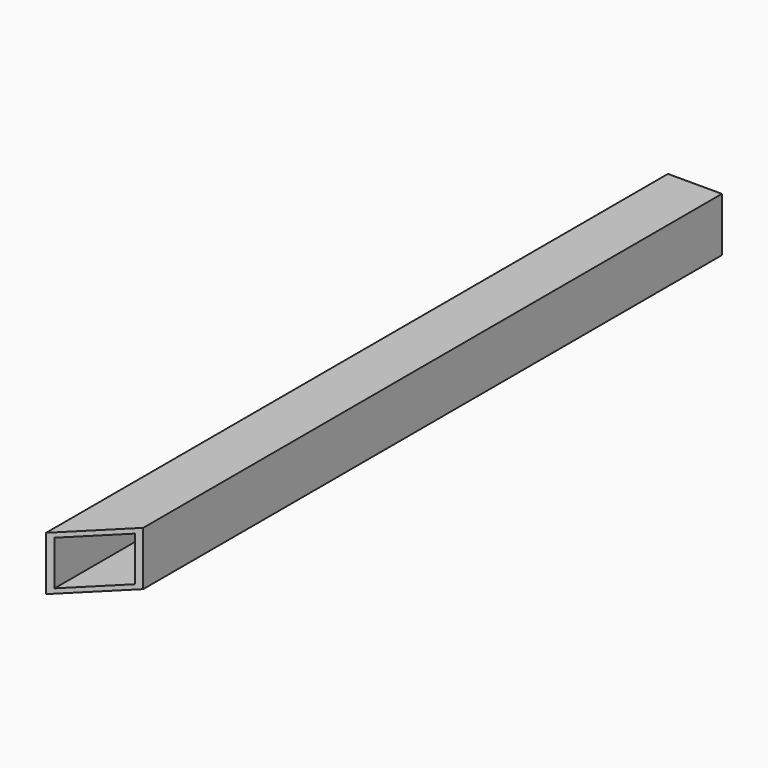
from build123d import *

# Parameters (mm, degrees)
SKETCH_W     = 31.75
SKETCH_H     = 31.75
SKETCH_W_2   = 26.2128
SKETCH_H_2   = 26.2128
PAD_DEPTH    = 457.2
POCKET_DEPTH = 31.75


with BuildPart() as part:
    # Sketch → Pad (new body)
    with BuildSketch(Plane.XZ):
        Rectangle(SKETCH_W, SKETCH_H)
        Rectangle(SKETCH_W_2, SKETCH_H_2, mode=Mode.SUBTRACT)
    extrude(amount=PAD_DEPTH)

    # Sketch001 → Pocket (cut)
    with BuildSketch(Plane(origin=(0, 0, 15.875), x_dir=(-1, 0, 0), z_dir=(0, 0, 1))):
        Polygon((15.875, 457.2), (-15.875, 457.2), (-15.875, 425.45), align=None)
    extrude(amount=-POCKET_DEPTH, mode=Mode.SUBTRACT)


solid = part.part
